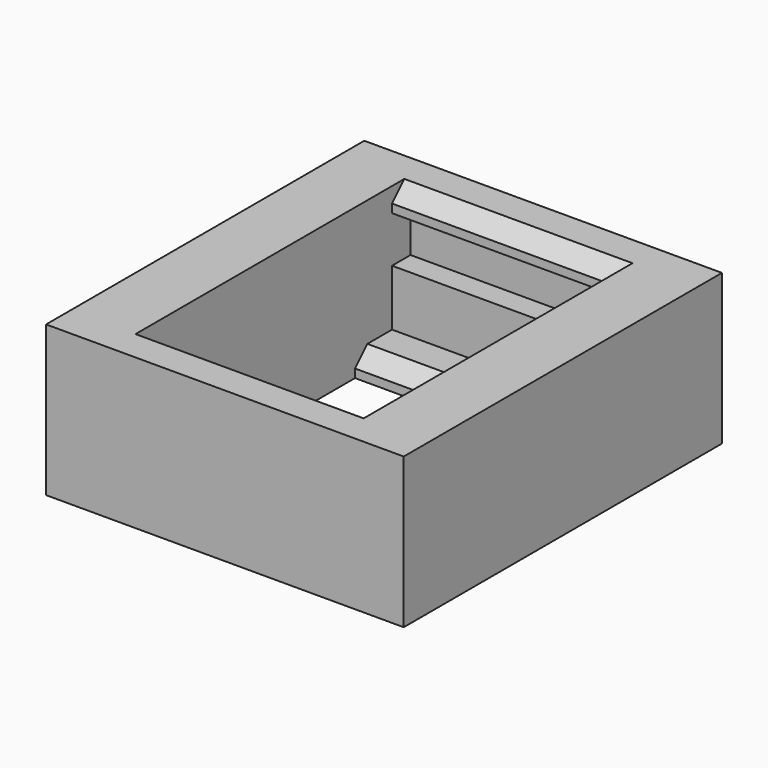
from build123d import *

# Parameters (mm, degrees)
SKETCH_W        = 23.2
SKETCH_H        = 25.8
SKETCH_W_2      = 14.8
SKETCH_H_2      = 16.8
PAD_DEPTH       = 9.75
SKETCH001_W     = 14.8
SKETCH001_H     = 19.8
POCKET_DEPTH    = 8.2
POCKET001_START = -4.2
SKETCH002_W     = 1.5
SKETCH002_H     = 3
POCKET001_DEPTH = 14.8
CHAMFER_SIZE    = 1


with BuildPart() as part:
    # Sketch → Pad (new body)
    with BuildSketch(Plane.XY):
        with Locations((0, 1.5)):
            Rectangle(SKETCH_W, SKETCH_H)
        Rectangle(SKETCH_W_2, SKETCH_H_2, mode=Mode.SUBTRACT)
    extrude(amount=PAD_DEPTH)

    # Sketch001 (on Face10 of Pad) → Pocket (cut)
    with BuildSketch(Plane.XY.offset(9.75)):
        with Locations((0, 1.5)):
            Rectangle(SKETCH001_W, SKETCH001_H)
    extrude(amount=-POCKET_DEPTH, mode=Mode.SUBTRACT)

    # Sketch002 (on Face6 of Pocket) → Pocket001 (cut)
    with BuildSketch(Plane.YZ.offset(11.6).offset(POCKET001_START)):
        with Locations((-9.15, 6.7)):
            Rectangle(SKETCH002_W, SKETCH002_H)
        with Locations((12.15, 6.7)):
            Rectangle(SKETCH002_W, SKETCH002_H)
    extrude(amount=-POCKET001_DEPTH, mode=Mode.SUBTRACT)

    # Chamfer
    chamfer_edges = [part.edges().sort_by_distance(p)[0] for p in [
        (0, 8.4, 1.55),
        (0, 11.4, 9.75),
        (0, -8.4, 9.75),
    ]]
    chamfer(chamfer_edges, length=CHAMFER_SIZE)


solid = part.part
